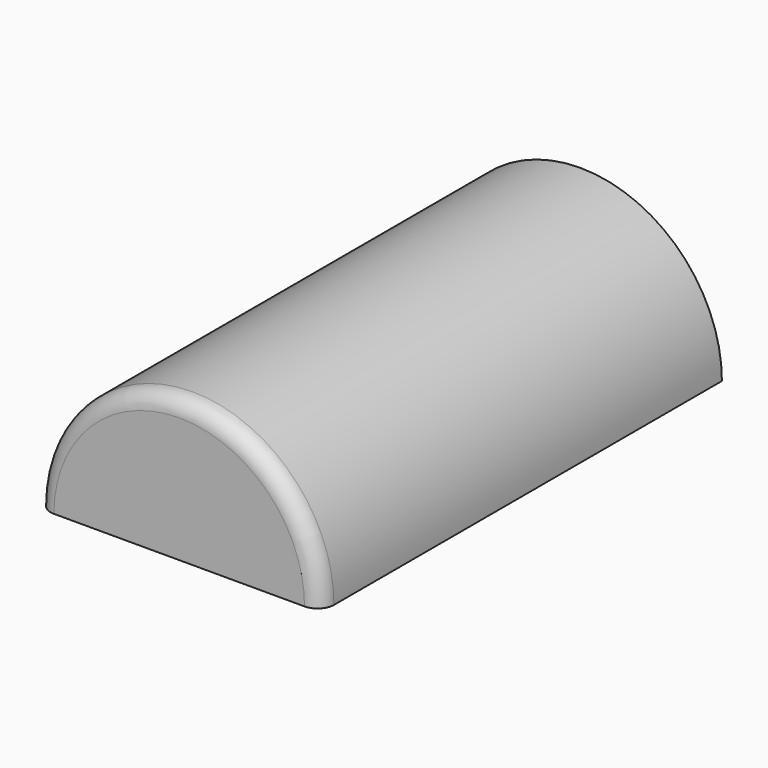
from build123d import *

# Parameters (mm, degrees)
F1_DEPTH = 90
F3_DEPTH = 2
F4_R     = 3
F6_DEPTH = 3
F7_R     = 1.804785
F7_R_2   = 1.602006
F8_DEPTH = 3


with BuildPart() as f1:
    # F0 (on Front) → F1 (new body)
    with BuildSketch(Plane.XZ):
        with BuildLine():
            Line((24, 0), (26, 0))
            ThreePointArc((26, 0), (0, 26), (-26, 0))
            Line((-26, 0), (-24, 0))
            ThreePointArc((-24, 0), (0, 24), (24, 0))
        make_face()
    extrude(amount=F1_DEPTH)

    # F2 (on face) → F3 (join)
    with BuildSketch(Plane.XZ.offset(90)):
        with BuildLine():
            Line((-26, 0), (26, 0))
            ThreePointArc((26, 0), (0, 26), (-26, 0))
        make_face()
    extrude(amount=F3_DEPTH)

    # F4
    f4_edges = [f1.edges().sort_by_distance(p)[0] for p in [
        (0, -92, 26),
    ]]
    fillet(f4_edges, radius=F4_R)

    # F5 (on Front) → F6 (join)
    with BuildSketch(Plane.XZ):
        with BuildLine():
            Line((-26, 0), (26, 0))
            ThreePointArc((26, 0), (0, 26), (-26, 0))
        make_face()
    extrude(amount=F6_DEPTH)

    # F7 (on face) → F8 (cut)
    with BuildSketch(Plane(origin=(0, 0, 0), x_dir=(-1, 0, 0), z_dir=(0, 1, 0))):
        with Locations((0, 16.952889)):
            Circle(F7_R)
        with Locations((15.691938, 6.337816)):
            Circle(F7_R_2)
        with Locations((-15.691938, 6.337816)):
            Circle(F7_R_2)
    extrude(amount=-F8_DEPTH, mode=Mode.SUBTRACT)


solid = f1.part
